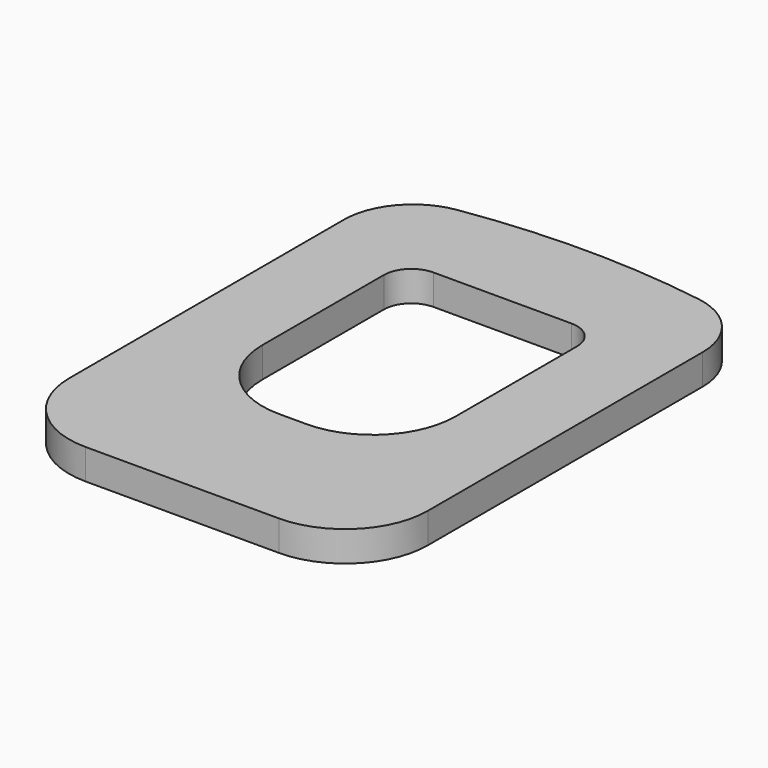
from build123d import *

# Parameters (mm, degrees)
F1_DEPTH = 2.2


with BuildPart() as f1:
    # F0 (on Top) → F1 (new body)
    with BuildSketch(Plane.XY):
        with BuildLine():
            ThreePointArc((0, 6), (1.757359, 1.757359), (6, 0))
            Line((6, 0), (20, 0))
            ThreePointArc((20, 0), (24.242641, 1.757359), (26, 6))
            Line((26, 6), (26, 30.880977))
            ThreePointArc((26, 30.880977), (24.797058, 34.13403), (21.76706, 35.821789))
            ThreePointArc((21.76706, 35.821789), (13, 36.498279), (4.23294, 35.821789))
            ThreePointArc((4.23294, 35.821789), (1.202942, 34.13403), (0, 30.880977))
            Line((0, 30.880977), (0, 6))
        make_face()
        with BuildLine():
            ThreePointArc((6, 27), (6.585786, 28.414214), (8, 29))
            Line((8, 29), (18, 29))
            ThreePointArc((18, 29), (19.414214, 28.414214), (20, 27))
            Line((20, 27), (20, 16))
            ThreePointArc((20, 16), (18.242641, 11.757359), (14, 10))
            Line((14, 10), (12, 10))
            ThreePointArc((12, 10), (7.757359, 11.757359), (6, 16))
            Line((6, 16), (6, 27))
        make_face(mode=Mode.SUBTRACT)
    extrude(amount=F1_DEPTH)


solid = f1.part
